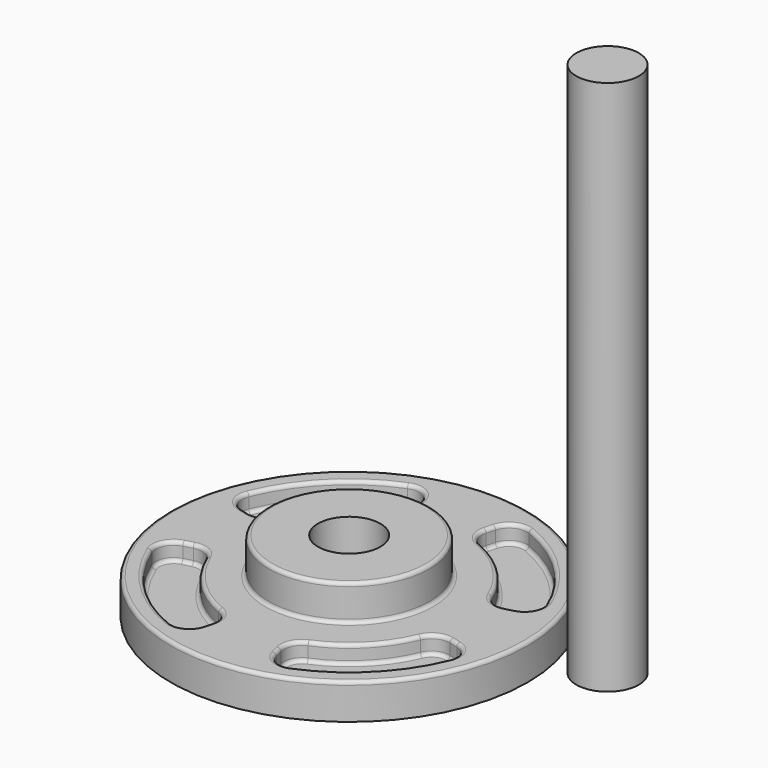
from build123d import *

# Parameters (mm, degrees)
F0_R      = 127
F1_DEPTH  = 25.4
F2_R      = 57.15
F3_DEPTH  = 25.4
F5_DEPTH  = 12.7
F6_R      = 2.54
F7_R      = 22.225
F8_DEPTH  = 50.801
F9_R      = 22.225
F10_DEPTH = 381


with BuildPart() as f1:
    # F0 (on Top) → F1 (new body)
    with BuildSketch(Plane.XY):
        Circle(F0_R)
    extrude(amount=F1_DEPTH)

    # F2 (on face) → F3 (join)
    with BuildSketch(Plane.XY.offset(25.4)):
        Circle(F2_R)
    extrude(amount=F3_DEPTH)

    # F4 (on face) → F5 (cut)
    with BuildSketch(Plane.XY.offset(25.4)):
        with BuildLine():
            ThreePointArc((-43.151655, 105.841507), (-80.822305, 80.822305), (-105.841507, 43.151655))
            ThreePointArc((-105.841507, 43.151655), (-105.455931, 32.708249), (-97.368342, 26.089769))
            Line((-97.368342, 26.089769), (-91.18295, 24.432398))
            ThreePointArc((-91.18295, 24.432398), (-82.295016, 25.30143), (-76.176489, 31.806368))
            ThreePointArc((-76.176489, 31.806368), (-58.371665, 58.371665), (-31.806368, 76.176489))
            ThreePointArc((-31.806368, 76.176489), (-25.30143, 82.295016), (-24.432398, 91.18295))
            Line((-24.432398, 91.18295), (-26.089769, 97.368342))
            ThreePointArc((-26.089769, 97.368342), (-32.708249, 105.455931), (-43.151655, 105.841507))
        make_face()
        with BuildLine():
            ThreePointArc((76.176489, 31.806368), (82.295016, 25.30143), (91.18295, 24.432398))
            Line((91.18295, 24.432398), (97.368342, 26.089769))
            ThreePointArc((97.368342, 26.089769), (105.455931, 32.708249), (105.841507, 43.151655))
            ThreePointArc((105.841507, 43.151655), (80.822305, 80.822305), (43.151655, 105.841507))
            ThreePointArc((43.151655, 105.841507), (32.708249, 105.455931), (26.089769, 97.368342))
            Line((26.089769, 97.368342), (24.432398, 91.18295))
            ThreePointArc((24.432398, 91.18295), (25.30143, 82.295016), (31.806368, 76.176489))
            ThreePointArc((31.806368, 76.176489), (58.371665, 58.371665), (76.176489, 31.806368))
        make_face()
        with BuildLine():
            Line((-26.089769, -97.368342), (-24.432398, -91.18295))
            ThreePointArc((-24.432398, -91.18295), (-25.30143, -82.295016), (-31.806368, -76.176489))
            ThreePointArc((-31.806368, -76.176489), (-58.371665, -58.371665), (-76.176489, -31.806368))
            ThreePointArc((-76.176489, -31.806368), (-82.295016, -25.30143), (-91.18295, -24.432398))
            Line((-91.18295, -24.432398), (-97.368342, -26.089769))
            ThreePointArc((-97.368342, -26.089769), (-105.455931, -32.708249), (-105.841507, -43.151655))
            ThreePointArc((-105.841507, -43.151655), (-80.822305, -80.822305), (-43.151655, -105.841507))
            ThreePointArc((-43.151655, -105.841507), (-32.708249, -105.455931), (-26.089769, -97.368342))
        make_face()
        with BuildLine():
            ThreePointArc((31.806368, -76.176489), (25.30143, -82.295016), (24.432398, -91.18295))
            Line((24.432398, -91.18295), (26.089769, -97.368342))
            ThreePointArc((26.089769, -97.368342), (32.708249, -105.455931), (43.151655, -105.841507))
            ThreePointArc((43.151655, -105.841507), (80.822305, -80.822305), (105.841507, -43.151655))
            ThreePointArc((105.841507, -43.151655), (105.455931, -32.708249), (97.368342, -26.089769))
            Line((97.368342, -26.089769), (91.18295, -24.432398))
            ThreePointArc((91.18295, -24.432398), (82.295016, -25.30143), (76.176489, -31.806368))
            ThreePointArc((76.176489, -31.806368), (58.371665, -58.371665), (31.806368, -76.176489))
        make_face()
    extrude(amount=-F5_DEPTH, mode=Mode.SUBTRACT)

    # F6
    f6_edges = [f1.edges().sort_by_distance(p)[0] for p in [
        (-127, 0, 25.4),
        (-57.15, 0, 25.4),
        (-57.15, 0, 50.8),
        (-80.822305, 80.822305, 25.4),
        (-32.708249, 105.455931, 25.4),
        (32.708249, 105.455931, 25.4),
        (94.275646, -25.261083, 25.4),
        (-94.275646, -25.261083, 25.4),
        (-80.822305, 80.822305, 12.7),
        (80.822305, 80.822305, 12.7),
        (82.295016, -25.30143, 12.7),
        (-58.371665, -58.371665, 12.7),
    ]]
    fillet(f6_edges, radius=F6_R)

    # F7 (on face) → F8 (cut, through all)
    with BuildSketch(Plane.XY.offset(50.8)):
        Circle(F7_R)
    extrude(amount=-F8_DEPTH, mode=Mode.SUBTRACT)


with BuildPart() as f10:
    # F9 (on face) → F10 (new body)
    with BuildSketch(Plane.XY.offset(50.8)):
        with Locations((215.708196, -39.99871)):
            Circle(F9_R)
    extrude(amount=F10_DEPTH)


solid = Compound([f1.part, f10.part])
